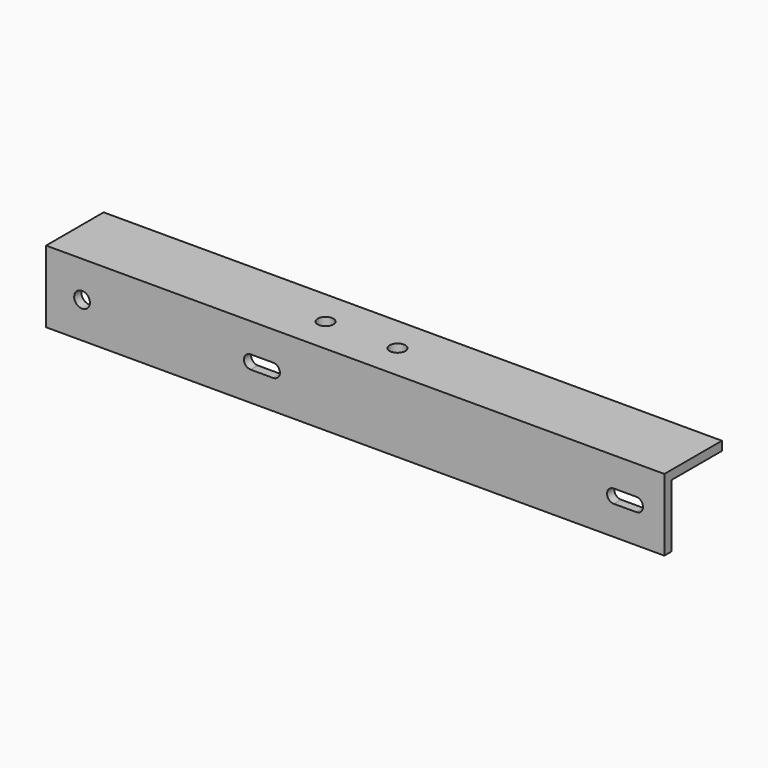
from build123d import *

# Parameters (mm, degrees)
F1_DEPTH = 436.5625
F2_R     = 5.55625
F3_DEPTH = 50.801
F4_R     = 5.55625
F5_DEPTH = 50.801


with BuildPart() as f1:
    # F0 (on Right) → F1 (new body)
    with BuildSketch(Plane.YZ):
        Polygon((0, 50.8), (0, 0), (50.8, 0), (50.8, 6.35), (6.35, 6.35), (6.35, 50.8), align=None)
    extrude(amount=F1_DEPTH)

    # F2 (on face) → F3 (cut, through all)
    with BuildSketch(Plane.XZ):
        with Locations((25.4, 25.4)):
            Circle(F2_R)
        with BuildLine():
            ThreePointArc((144.4625, 30.1625), (139.7, 25.4), (144.4625, 20.6375))
            Line((144.4625, 20.6375), (160.3375, 20.6375))
            ThreePointArc((160.3375, 20.6375), (165.1, 25.4), (160.3375, 30.1625))
            Line((160.3375, 30.1625), (144.4625, 30.1625))
        make_face()
        with BuildLine():
            ThreePointArc((400.84375, 30.1625), (396.08125, 25.4), (400.84375, 20.6375))
            Line((400.84375, 20.6375), (416.71875, 20.6375))
            ThreePointArc((416.71875, 20.6375), (421.48125, 25.4), (416.71875, 30.1625))
            Line((416.71875, 30.1625), (400.84375, 30.1625))
        make_face()
    extrude(amount=-F3_DEPTH, mode=Mode.SUBTRACT)

    # F4 (on face) → F5 (cut, through all)
    with BuildSketch(Plane(origin=(0, 0, 0), x_dir=(1, 0, 0), z_dir=(0, 0, -1))):
        with Locations((227.80625, -25.4)):
            Circle(F4_R)
        with Locations((177.00625, -25.4)):
            Circle(F4_R)
    extrude(amount=-F5_DEPTH, mode=Mode.SUBTRACT)


with BuildPart() as f6_1:
    # F6: instance of F1
    add(f1.part.mirror(Plane.XY))


solid = f6_1.part
